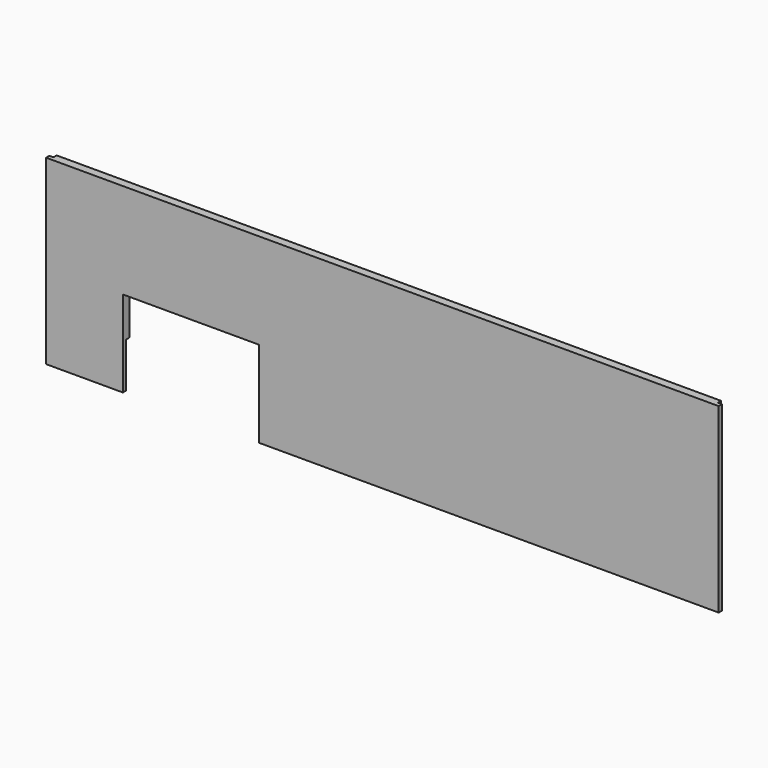
from build123d import *

# Parameters (mm, degrees)
F0_W      = 740
F0_H      = 200
F1_DEPTH  = 9
F2_W      = 4.5
F2_H      = 200
F3_DEPTH  = 4.5
F4_W      = 4.5
F4_H      = 200
F5_DEPTH  = 4.5
F6_W      = 731
F6_H      = 4.5
F7_DEPTH  = 4.5
F8_W      = 731
F8_H      = 4.5
F9_DEPTH  = 4.5
F10_W     = 150
F10_H     = 95
F11_DEPTH = 25
F12_W     = 4.5
F12_H     = 40.5
F13_DEPTH = 4.5
F14_W     = 4.5
F14_H     = 40.5
F15_DEPTH = 4.5


with BuildPart() as f1:
    # F0 (on Front) → F1 (new body)
    with BuildSketch(Plane.XZ):
        Rectangle(F0_W, F0_H)
    extrude(amount=F1_DEPTH)

    # F2 (on face) → F3 (cut)
    with BuildSketch(Plane.YZ.offset(370)):
        with Locations((-2.25, 0)):
            Rectangle(F2_W, F2_H)
    extrude(amount=-F3_DEPTH, mode=Mode.SUBTRACT)

    # F4 (on face) → F5 (cut)
    with BuildSketch(Plane(origin=(-370, 0, 0), x_dir=(0, -1, 0), z_dir=(-1, 0, 0))):
        with Locations((2.25, 0)):
            Rectangle(F4_W, F4_H)
    extrude(amount=-F5_DEPTH, mode=Mode.SUBTRACT)

    # F6 (on face) → F7 (cut)
    with BuildSketch(Plane(origin=(0, 0, 0), x_dir=(-1, 0, 0), z_dir=(0, 1, 0))):
        with Locations((0, -52.75)):
            Rectangle(F6_W, F6_H)
    extrude(amount=-F7_DEPTH, mode=Mode.SUBTRACT)

    # F8 (on face) → F9 (cut)
    with BuildSketch(Plane(origin=(0, 0, 0), x_dir=(-1, 0, 0), z_dir=(0, 1, 0))):
        with Locations((0, -97.75)):
            Rectangle(F8_W, F8_H)
    extrude(amount=-F9_DEPTH, mode=Mode.SUBTRACT)

    # F10 (on face) → F11 (cut)
    with BuildSketch(Plane.XZ.offset(9)):
        with Locations((-210.5, -52.5)):
            Rectangle(F10_W, F10_H)
    extrude(amount=-F11_DEPTH, mode=Mode.SUBTRACT)

    # F12 (on face) → F13 (cut)
    with BuildSketch(Plane(origin=(0, 0, 0), x_dir=(-1, 0, 0), z_dir=(0, 1, 0))):
        with Locations((133.25, -75.25)):
            Rectangle(F12_W, F12_H)
    extrude(amount=-F13_DEPTH, mode=Mode.SUBTRACT)

    # F14 (on face) → F15 (cut)
    with BuildSketch(Plane(origin=(0, 0, 0), x_dir=(-1, 0, 0), z_dir=(0, 1, 0))):
        with Locations((287.75, -75.25)):
            Rectangle(F14_W, F14_H)
    extrude(amount=-F15_DEPTH, mode=Mode.SUBTRACT)


solid = f1.part
